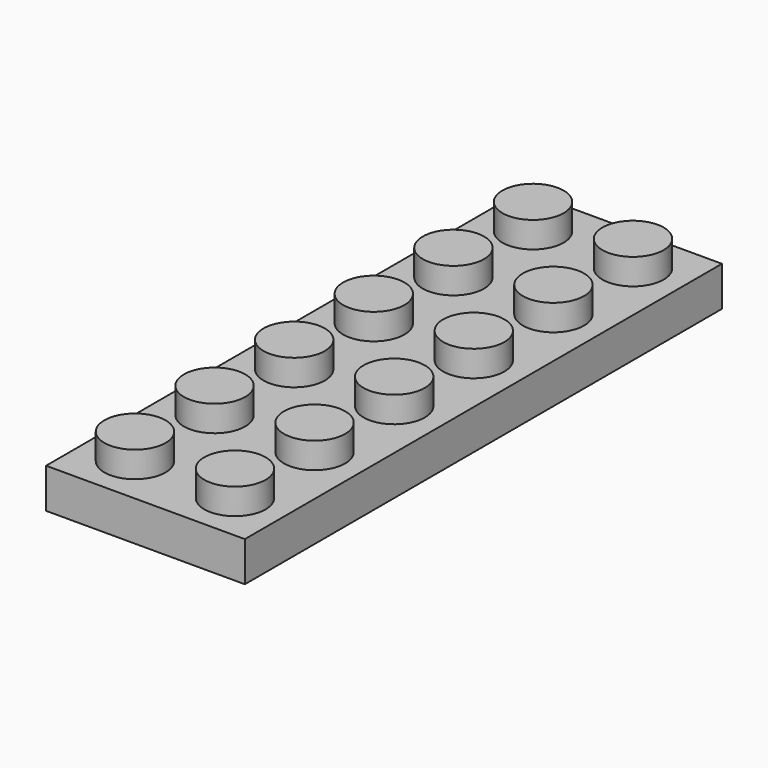
from build123d import *

# Parameters (mm, degrees)
F0_W     = 15.9
F0_H     = 47.7
F0_R     = 2.45
F1_DEPTH = 3.18
F2_DEPTH = 5.26
F3_W     = 12.9
F3_H     = 44.7
F3_R     = 3.225
F3_R_2   = 2.725
F4_DEPTH = 2.08


with BuildPart() as f1:
    # F0 (on Top) → F1 (new body)
    with BuildSketch(Plane.XY):
        with Locations((7.95, -23.85)):
            Rectangle(F0_W, F0_H)
        with Locations((3.95, -43.75)):
            Circle(F0_R, mode=Mode.SUBTRACT)
        with Locations((3.95, -35.79)):
            Circle(F0_R, mode=Mode.SUBTRACT)
        with Locations((3.95, -27.83)):
            Circle(F0_R, mode=Mode.SUBTRACT)
        with Locations((11.95, -43.75)):
            Circle(F0_R, mode=Mode.SUBTRACT)
        with Locations((11.95, -35.79)):
            Circle(F0_R, mode=Mode.SUBTRACT)
        with Locations((11.95, -27.83)):
            Circle(F0_R, mode=Mode.SUBTRACT)
        with Locations((3.95, -19.87)):
            Circle(F0_R, mode=Mode.SUBTRACT)
        with Locations((3.95, -11.91)):
            Circle(F0_R, mode=Mode.SUBTRACT)
        with Locations((3.95, -3.95)):
            Circle(F0_R, mode=Mode.SUBTRACT)
        with Locations((11.95, -19.87)):
            Circle(F0_R, mode=Mode.SUBTRACT)
        with Locations((11.95, -11.91)):
            Circle(F0_R, mode=Mode.SUBTRACT)
        with Locations((11.95, -3.95)):
            Circle(F0_R, mode=Mode.SUBTRACT)
    extrude(amount=F1_DEPTH)

    # F0 (on Top) → F2 (join)
    with BuildSketch(Plane.XY):
        with Locations((3.95, -3.95)):
            Circle(F0_R)
        with Locations((11.95, -3.95)):
            Circle(F0_R)
        with Locations((11.95, -11.91)):
            Circle(F0_R)
        with Locations((3.95, -11.91)):
            Circle(F0_R)
        with Locations((3.95, -19.87)):
            Circle(F0_R)
        with Locations((11.95, -19.87)):
            Circle(F0_R)
        with Locations((11.95, -27.83)):
            Circle(F0_R)
        with Locations((3.95, -27.83)):
            Circle(F0_R)
        with Locations((3.95, -35.79)):
            Circle(F0_R)
        with Locations((11.95, -35.79)):
            Circle(F0_R)
        with Locations((11.95, -43.75)):
            Circle(F0_R)
        with Locations((3.95, -43.75)):
            Circle(F0_R)
    extrude(amount=F2_DEPTH)

    # F3 (on face) → F4 (cut)
    with BuildSketch(Plane(origin=(0, 0, 0), x_dir=(1, 0, 0), z_dir=(0, 0, -1))):
        with Locations((7.95, 23.85)):
            Rectangle(F3_W, F3_H)
        with Locations((7.95, 8.025)):
            Circle(F3_R, mode=Mode.SUBTRACT)
        with Locations((7.95, 15.938)):
            Circle(F3_R, mode=Mode.SUBTRACT)
        with Locations((7.95, 23.85)):
            Circle(F3_R, mode=Mode.SUBTRACT)
        with Locations((7.95, 31.762)):
            Circle(F3_R, mode=Mode.SUBTRACT)
        with Locations((7.95, 39.675)):
            Circle(F3_R, mode=Mode.SUBTRACT)
        with Locations((7.95, 39.675)):
            Circle(F3_R_2)
        with Locations((7.95, 31.762)):
            Circle(F3_R_2)
        with Locations((7.95, 23.85)):
            Circle(F3_R_2)
        with Locations((7.95, 15.938)):
            Circle(F3_R_2)
        with Locations((7.95, 8.025)):
            Circle(F3_R_2)
    extrude(amount=-F4_DEPTH, mode=Mode.SUBTRACT)


solid = f1.part
